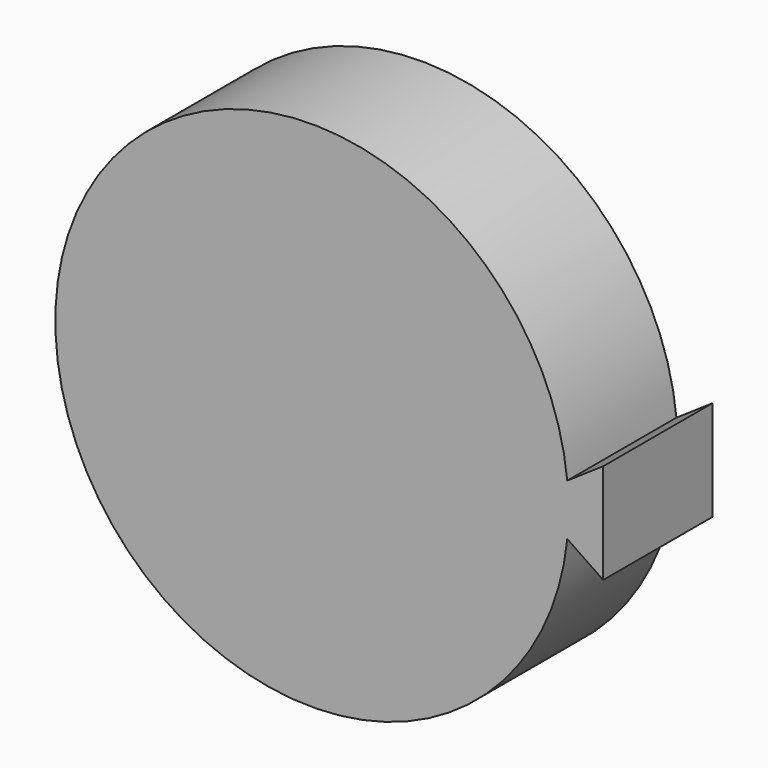
from build123d import *

# Parameters (mm, degrees)
F1_DEPTH = 25.4


with BuildPart() as f1:
    # F0 (on Front) → F1 (new body)
    with BuildSketch(Plane.XZ):
        with BuildLine():
            ThreePointArc((47.512373, -4.77786), (47.692056, -2.391933), (47.752, 0))
            ThreePointArc((47.752, 0), (47.692056, 2.391933), (47.512373, 4.77786))
            Line((47.512373, 4.77786), (40.463071, 0))
            Line((40.463071, 0), (47.512373, -4.77786))
        make_face()
        with BuildLine():
            Line((40.463071, 0), (47.512373, 4.77786))
            ThreePointArc((47.512373, 4.77786), (-47.752, 0), (47.512373, -4.77786))
            Line((47.512373, -4.77786), (40.463071, 0))
        make_face()
        with BuildLine():
            ThreePointArc((47.512373, 4.77786), (47.692056, 2.391933), (47.752, 0))
            ThreePointArc((47.752, 0), (47.692056, -2.391933), (47.512373, -4.77786))
            Line((47.512373, -4.77786), (54.205246, -9.314141))
            Line((54.205246, -9.314141), (54.205246, 9.314141))
            Line((54.205246, 9.314141), (47.512373, 4.77786))
        make_face()
    extrude(amount=F1_DEPTH)


solid = f1.part
